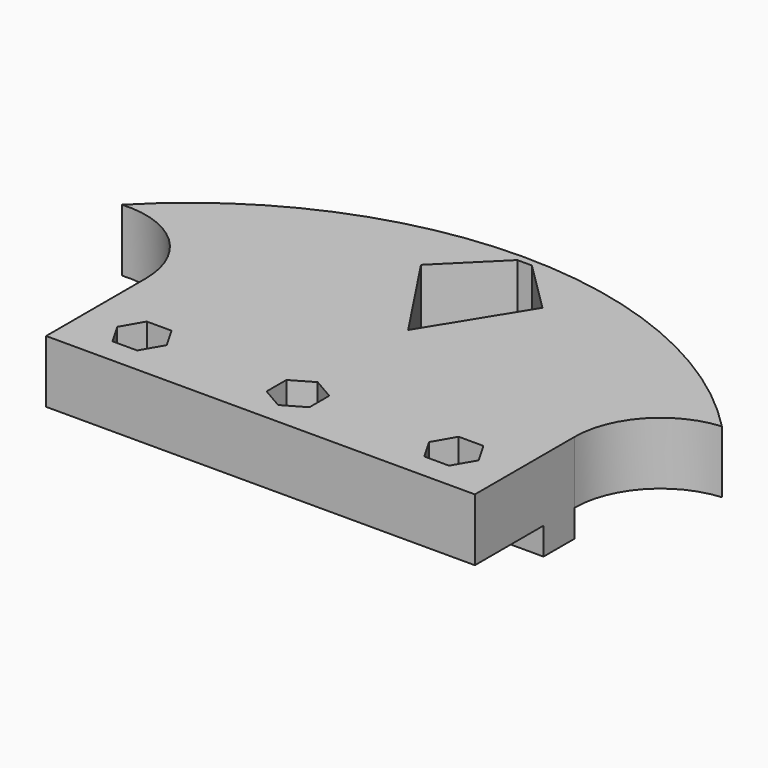
from build123d import *

# Parameters (mm, degrees)
F0_W     = 55
F0_H     = 11
F0_H_2   = 5
F1_DEPTH = 8
F0_R     = 1.75
F2_DEPTH = 4
F3_DEPTH = 3.5


with BuildPart() as f1:
    # F0 (on Top) → F1 (new body)
    with BuildSketch(Plane.XY):
        with Locations((0, -2.5)):
            Rectangle(F0_W, F0_H)
        Polygon((-16.824574, -2), (-18.412287, -4.75), (-21.587713, -4.75), (-23.175426, -2), (-21.587713, 0.75), (-18.412287, 0.75), align=None, mode=Mode.SUBTRACT)
        Polygon((0, 1.175426), (2.75, -0.412287), (2.75, -3.587713), (0, -5.175426), (-2.75, -3.587713), (-2.75, -0.412287), align=None, mode=Mode.SUBTRACT)
        Polygon((18.412287, -4.75), (16.824574, -2), (18.412287, 0.75), (21.587713, 0.75), (23.175426, -2), (21.587713, -4.75), align=None, mode=Mode.SUBTRACT)
        with Locations((0, 5.5)):
            Rectangle(F0_W, F0_H_2)
        Polygon((-27.5, 8), (27.5, 8), (7.497111, 27.834252), (0, 15.674993), (-7.823137, 27.510974), align=None)
        with BuildLine():
            Line((7.497111, 27.834252), (27.5, 8))
            ThreePointArc((27.5, 8), (30.409967, 15.459144), (37.60235, 18.97715))
            ThreePointArc((37.60235, 18.97715), (-0.876943, 35.275336), (-39.356235, 18.97715))
            ThreePointArc((-39.356235, 18.97715), (-31.029945, 16.078802), (-27.5, 8))
            Line((-27.5, 8), (-7.823137, 27.510974))
            Line((-7.823137, 27.510974), (-0.934656, 34.341381))
            Line((-0.934656, 34.341381), (0.934656, 34.341381))
            Line((0.934656, 34.341381), (7.497111, 27.834252))
        make_face()
        with BuildLine():
            Line((7.497111, 27.834252), (27.5, 8))
            ThreePointArc((27.5, 8), (30.409967, 15.459144), (37.60235, 18.97715))
            ThreePointArc((37.60235, 18.97715), (-0.876943, 35.275336), (-39.356235, 18.97715))
            ThreePointArc((-39.356235, 18.97715), (-31.029945, 16.078802), (-27.5, 8))
            Line((-27.5, 8), (-7.823137, 27.510974))
            Line((-7.823137, 27.510974), (-0.934656, 34.341381))
            Line((-0.934656, 34.341381), (0.934656, 34.341381))
            Line((0.934656, 34.341381), (7.497111, 27.834252))
        make_face()
    extrude(amount=F1_DEPTH)

    # F0 (on Top) → F2 (join)
    with BuildSketch(Plane.XY):
        Polygon((-21.587713, -4.75), (-18.412287, -4.75), (-16.824574, -2), (-18.412287, 0.75), (-21.587713, 0.75), (-23.175426, -2), align=None)
        with Locations((-20, -2)):
            Circle(F0_R, mode=Mode.SUBTRACT)
        Polygon((2.75, -3.587713), (2.75, -0.412287), (0, 1.175426), (-2.75, -0.412287), (-2.75, -3.587713), (0, -5.175426), align=None)
        with Locations((0, -2)):
            Circle(F0_R, mode=Mode.SUBTRACT)
        Polygon((18.412287, 0.75), (16.824574, -2), (18.412287, -4.75), (21.587713, -4.75), (23.175426, -2), (21.587713, 0.75), align=None)
        with Locations((20, -2)):
            Circle(F0_R, mode=Mode.SUBTRACT)
    extrude(amount=F2_DEPTH)

    # F0 (on Top) → F3 (join)
    with BuildSketch(Plane.XY):
        with Locations((0, 5.5)):
            Rectangle(F0_W, F0_H_2)
    extrude(amount=-F3_DEPTH)


solid = f1.part
